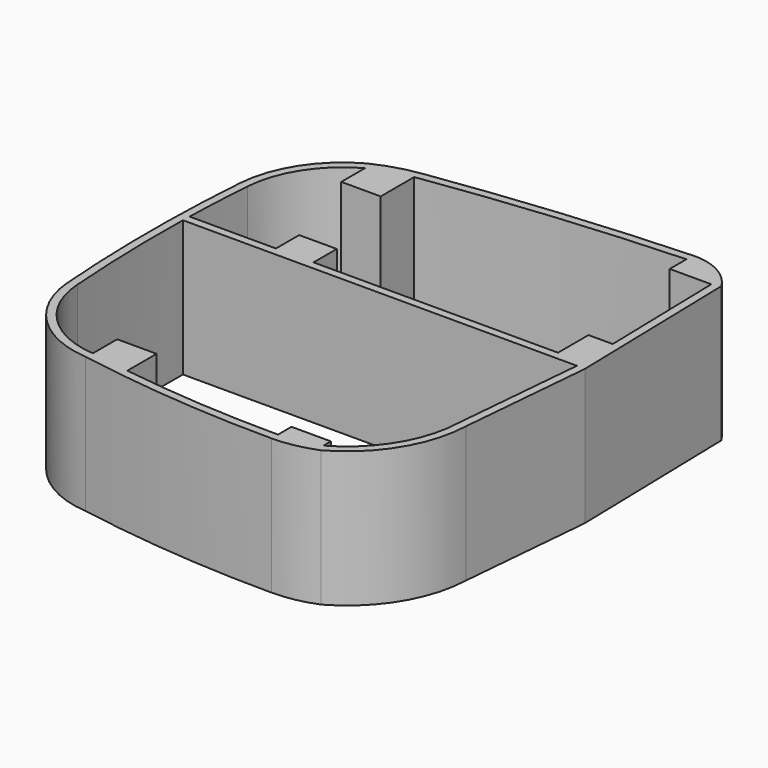
from build123d import *

# Parameters (mm, degrees)
F0_W     = 830
F0_H     = 642
F1_DEPTH = 3000


with BuildPart() as f1:
    # F0 (on Top) → F1 (new body)
    with BuildSketch(Plane.XY):
        with BuildLine():
            ThreePointArc((-4415.623306, 3270.077387), (-4504.172337, 869.60239), (-4410.18569, -1530.665856))
            ThreePointArc((-4410.18569, -1530.665856), (-3781.498247, -2853.920339), (-2447.673177, -3459.858463))
            ThreePointArc((-2447.673177, -3459.858463), (-249.69377, -3744.652013), (1964.697133, -3837.892397))
            ThreePointArc((1964.697133, -3837.892397), (2447.687031, -3790.501616), (2912.618869, -3651.348777))
            ThreePointArc((2912.618869, -3651.348777), (3903.600357, -2700.002548), (4302.056905, -1385.340485))
            Line((4302.056905, -1385.340485), (4564.654923, 1564.211292))
            Line((4564.654923, 1564.211292), (4471.213212, 5449.716545))
            ThreePointArc((4471.213212, 5449.716545), (3999.109892, 5894.515802), (3366.38585, 6037.303095))
            ThreePointArc((3366.38585, 6037.303095), (587.338214, 5842.413564), (-2178.410113, 5508.162328))
            ThreePointArc((-2178.410113, 5508.162328), (-2682.085566, 5398.367967), (-3162.700365, 5211.945919))
            ThreePointArc((-3162.700365, 5211.945919), (-4036.114586, 4400.349302), (-4415.623306, 3270.077387))
        make_face()
        with BuildLine():
            ThreePointArc((-4236.127641, 3256.61239), (-3886.124845, 4300.805733), (-3080.537553, 5051.719048))
            ThreePointArc((-3080.537553, 5051.719048), (-2655.369523, 5218.31856), (-2210.537553, 5321.506593))
            ThreePointArc((-2210.537553, 5321.506593), (575.155496, 5660.425336), (3374.462447, 5857.484385))
            ThreePointArc((3374.462447, 5857.484385), (3893.929442, 5746.289314), (4292.4759, 5395.047198))
            Line((4292.4759, 5395.047198), (4359.932764, 2590.047198))
            Line((4359.932764, 2590.047198), (4380.181848, 1748.047198))
            Line((4380.181848, 1748.047198), (4384.462533, 1570.047198))
            Line((4384.462533, 1570.047198), (4122.357902, -1373.962757))
            ThreePointArc((4122.357902, -1373.962757), (3754.178312, -2599.320013), (2834.462447, -3488.802639))
            ThreePointArc((2834.462447, -3488.802639), (2407.546587, -3614.942045), (1964.462447, -3657.89255))
            ThreePointArc((1964.462447, -3657.89255), (200.272458, -3598.785676), (-1555.537553, -3417.151034))
            ThreePointArc((-1555.537553, -3417.151034), (-1991.128288, -3352.852565), (-2425.537553, -3281.004306))
            ThreePointArc((-2425.537553, -3281.004306), (-3676.48753, -2704.420233), (-4236.127641, -1445.798771))
            ThreePointArc((-4236.127641, -1445.798771), (-4312.85193, 61.151349), (-4317.164559, 1570.047198))
            ThreePointArc((-4317.164559, 1570.047198), (-4315.155965, 1659.050221), (-4312.895286, 1748.047198))
            ThreePointArc((-4312.895286, 1748.047198), (-4283.575165, 2502.791026), (-4236.127641, 3256.61239))
        make_face(mode=Mode.SUBTRACT)
        with BuildLine():
            Line((-3080.537553, 5051.719048), (-3080.537553, 4395.047198))
            Line((-3080.537553, 4395.047198), (-2210.537553, 4395.047198))
            Line((-2210.537553, 4395.047198), (-2210.537553, 5321.506593))
            ThreePointArc((-2210.537553, 5321.506593), (-2655.369523, 5218.31856), (-3080.537553, 5051.719048))
        make_face()
        with BuildLine():
            ThreePointArc((4292.4759, 5395.047198), (3893.929442, 5746.289314), (3374.462447, 5857.484385))
            Line((3374.462447, 5857.484385), (3374.462447, 5395.047198))
            Line((3374.462447, 5395.047198), (4292.4759, 5395.047198))
        make_face()
        with BuildLine():
            Line((-2405.537553, 1748.047198), (-4312.895286, 1748.047198))
            ThreePointArc((-4312.895286, 1748.047198), (-4315.155965, 1659.050221), (-4317.164559, 1570.047198))
            Line((-4317.164559, 1570.047198), (4384.462533, 1570.047198))
            Line((4384.462533, 1570.047198), (4380.181848, 1748.047198))
            Line((4380.181848, 1748.047198), (3824.462447, 1748.047198))
            Line((3824.462447, 1748.047198), (-1575.537553, 1748.047198))
            Line((-1575.537553, 1748.047198), (-2405.537553, 1748.047198))
        make_face()
        with Locations((-1990.537553, 2069.047198)):
            Rectangle(F0_W, F0_H)
        Polygon((4380.181848, 1748.047198), (4359.932764, 2590.047198), (3824.462447, 2590.047198), (3824.462447, 1748.047198), align=None)
        with BuildLine():
            Line((-2425.537553, -2609.952802), (-2425.537553, -3281.004306))
            ThreePointArc((-2425.537553, -3281.004306), (-1991.128288, -3352.852565), (-1555.537553, -3417.151034))
            Line((-1555.537553, -3417.151034), (-1555.537553, -2609.952802))
            Line((-1555.537553, -2609.952802), (-2425.537553, -2609.952802))
        make_face()
        with BuildLine():
            ThreePointArc((1964.462447, -3657.89255), (2407.546587, -3614.942045), (2834.462447, -3488.802639))
            Line((2834.462447, -3488.802639), (2834.462447, -3284.952802))
            Line((2834.462447, -3284.952802), (1964.462447, -3284.952802))
            Line((1964.462447, -3284.952802), (1964.462447, -3657.89255))
        make_face()
    extrude(amount=F1_DEPTH)


solid = f1.part
